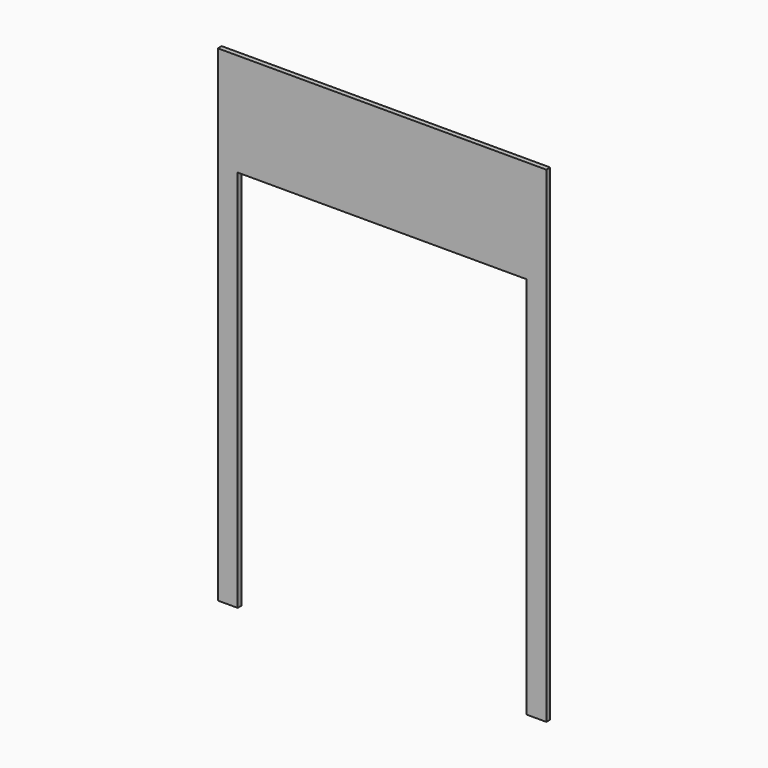
from build123d import *

# Parameters (mm, degrees)
F1_DEPTH = 25.4


with BuildPart() as f1:
    # F0 (on Front) → F1 (new body)
    with BuildSketch(Plane.XZ):
        Polygon((0, 2565.4), (0, 0), (104.775, 0), (104.775, 2022.475), (1628.775, 2022.475), (1628.775, 0), (1733.55, 0), (1733.55, 2565.4), align=None)
    extrude(amount=F1_DEPTH)


with BuildPart() as f2_1:
    # F2: copy of F1
    add(f1.part)


solid = Compound([f1.part, f2_1.part])
